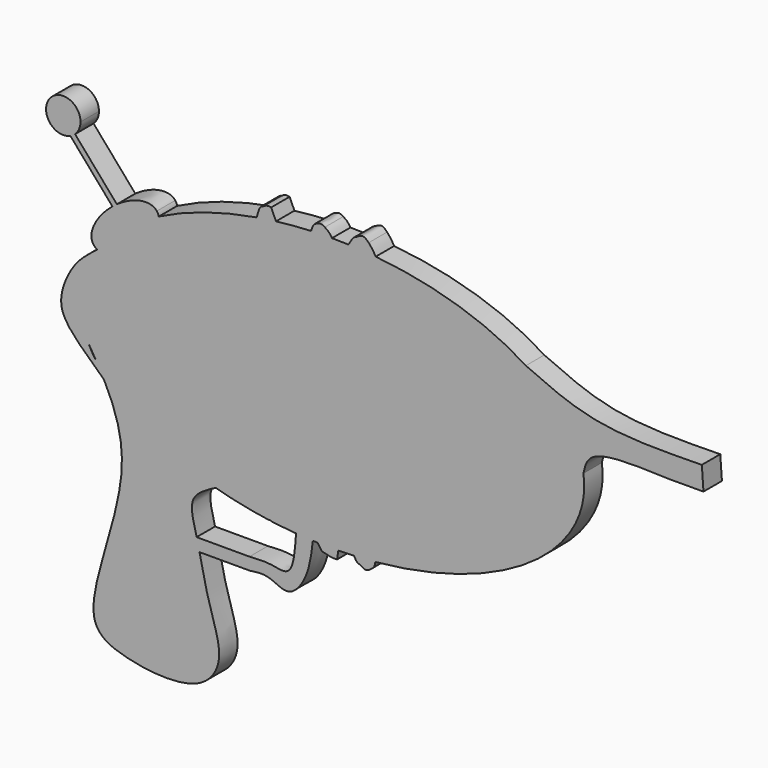
from build123d import *

# Parameters (mm, degrees)
F1_DEPTH = 3.81


with BuildPart() as f1:
    # F0 (on Front) → F1 (new body)
    with BuildSketch(Plane.XZ):
        with BuildLine():
            add(Edge.make_bspline(
                [(7.1764853625, -22.2150973609), (41.6714437306, -18.9513700341), (41.6714437306, 0)],
                knots=[4.8854677229, 4.8854677229, 4.8854677229, 6.2831853072, 6.2831853072, 6.2831853072], degree=2, weights=[1, 0.7655768754, 1]))
            add(Edge.make_bspline(
                [(41.6714437306, 0), (41.6714437306, 0.919232079), (41.5332061302, 1.8354147691)],
                knots=[0, 0, 0, 0.0814758591, 0.0814758591, 0.0814758591], degree=2, weights=[1, 0.9991703253, 1]))
            add(Edge.make_bspline(
                [(41.5332061302, 1.8354147691), (40.4608032167, 8.9428658771), (32.0327808531, 14.4245381336)],
                knots=[0.0814758591, 0.0814758591, 0.0814758591, 0.6939923291, 0.6939923291, 0.6939923291], degree=2, weights=[1, 0.9534683582, 1]))
            add(Edge.make_bspline(
                [(32.0327808531, 14.4245381336), (22.2639708412, 20.7782724393), (7.2220460873, 22.2107725458)],
                knots=[0.6939923291, 0.6939923291, 0.6939923291, 1.3966075613, 1.3966075613, 1.3966075613], degree=2, weights=[1, 0.9389235312, 1]))
            add(Edge.make_bspline(
                [(7.2220460873, 22.2107725458), (8.333769873, 20.140686904), (12.0700253902, 9.703719465), (10.7862677165, -6.9551726616), (8.3511709313, -17.3082662159), (7.1764853625, -22.2150973609)],
                knots=[0.1080643607, 0.1080643607, 0.1080643607, 0.1080643607, 0.3738691829, 0.6939713486, 0.984029053, 0.984029053, 0.984029053, 0.984029053], degree=3))
        make_face()
        with BuildLine():
            add(Edge.make_bspline(
                [(41.5332061302, 1.8354147691), (40.4608032167, 8.9428658771), (32.0327808531, 14.4245381336)],
                knots=[0.0814758591, 0.0814758591, 0.0814758591, 0.6939923291, 0.6939923291, 0.6939923291], degree=2, weights=[1, 0.9534683582, 1]))
            add(Edge.make_bspline(
                [(41.5332061302, 1.8354147691), (41.7938084635, 2.9887220769), (42.5212262317, 6.2730778516), (55.4833264671, 5.5069792129), (59.6356280034, 5.6022143315), (61.3840557635, 5.6421668269)],
                knots=[0, 0, 0, 0, 0.2387360903, 0.679721178, 1, 1, 1, 1], degree=3))
            Line((61.3840557635, 5.6421668269), (61.112139374, 9.4489296898))
            add(Edge.make_bspline(
                [(32.0327808531, 14.4245381336), (35.6491200449, 12.7849280683), (43.5685657691, 9.1410584661), (54.9279789937, 9.3461282725), (61.112139374, 9.4489296898)],
                knots=[0, 0, 0, 0, 0.4553090512, 1, 1, 1, 1], degree=3))
        make_face()
        with BuildLine():
            add(Edge.make_bspline(
                [(7.1764853625, -22.2150973609), (7.1118056776, -22.4852737387), (7.0470741814, -22.7554051835), (6.9823461496, -23.025536406)],
                knots=[0.984029053, 0.984029053, 0.984029053, 0.984029053, 1, 1, 1, 1], degree=3))
            add(Edge.make_bspline(
                [(5.1533014384, -22.3789331834), (6.1686099293, -22.3104571105), (7.1764853625, -22.2150973609)],
                knots=[4.8363714285, 4.8363714285, 4.8363714285, 4.8854677229, 4.8854677229, 4.8854677229], degree=2, weights=[1, 0.9996987094, 1]))
            add(Edge.make_bspline(
                [(5.1533014384, -22.3789331834), (4.9596112488, -22.9429018204), (4.7643858624, -23.3011066003), (4.5687956735, -23.3954750001)],
                knots=[0.8816460641, 0.8816460641, 0.8816460641, 0.8816460641, 0.9272607792, 0.9272607792, 0.9272607792, 0.9272607792], degree=3))
            add(Edge.make_bspline(
                [(4.5687956735, -23.3954750001), (4.9269265632, -23.6486043242), (5.6968907801, -24.192820217), (6.5343900978, -23.4323119812), (6.9823461496, -23.025536406)],
                knots=[0, 0, 0, 0, 0.4651266666, 1, 1, 1, 1], degree=3))
        make_face()
        with BuildLine():
            add(Edge.make_bspline(
                [(5.1533014384, -22.3789331834), (6.1686099293, -22.3104571105), (7.1764853625, -22.2150973609)],
                knots=[4.8363714285, 4.8363714285, 4.8363714285, 4.8854677229, 4.8854677229, 4.8854677229], degree=2, weights=[1, 0.9996987094, 1]))
            add(Edge.make_bspline(
                [(7.2220460873, 22.2107725458), (8.333769873, 20.140686904), (12.0700253902, 9.703719465), (10.7862677165, -6.9551726616), (8.3511709313, -17.3082662159), (7.1764853625, -22.2150973609)],
                knots=[0.1080643607, 0.1080643607, 0.1080643607, 0.1080643607, 0.3738691829, 0.6939713486, 0.984029053, 0.984029053, 0.984029053, 0.984029053], degree=3))
            add(Edge.make_bspline(
                [(7.2220460873, 22.2107725458), (6.1925912842, 22.3088114696), (5.1553487465, 22.3787950777)],
                knots=[1.3966075613, 1.3966075613, 1.3966075613, 1.4467643688, 1.4467643688, 1.4467643688], degree=2, weights=[1, 0.9996855533, 1]))
            add(Edge.make_bspline(
                [(5.1553487465, 22.3787950777), (6.2279392824, 19.7789939502), (9.7496877872, 8.9379244065), (8.0166114801, -3.6596154992), (6.0688547381, -19.7131123292), (5.1533014384, -22.3789331834)],
                knots=[0.1795431908, 0.1795431908, 0.1795431908, 0.1795431908, 0.405088035, 0.6660300689, 0.8816460641, 0.8816460641, 0.8816460641, 0.8816460641], degree=3))
        make_face()
        with BuildLine():
            add(Edge.make_bspline(
                [(5.1533014384, -22.3789331834), (4.9596112488, -22.9429018204), (4.7643858624, -23.3011066003), (4.5687956735, -23.3954750001)],
                knots=[0.8816460641, 0.8816460641, 0.8816460641, 0.8816460641, 0.9272607792, 0.9272607792, 0.9272607792, 0.9272607792], degree=3))
            add(Edge.make_bspline(
                [(3.6387588671, -22.4659001634), (4.3974987187, -22.4299072495), (5.1533014384, -22.3789331834)],
                knots=[4.7998205312, 4.7998205312, 4.7998205312, 4.8363714285, 4.8363714285, 4.8363714285], degree=2, weights=[1, 0.9998330086, 1]))
            add(Edge.make_bspline(
                [(4.5687956735, -23.3954750001), (4.2568989998, -23.5459589798), (3.9440746741, -23.025536406), (3.6387588671, -22.4659001634)],
                knots=[0.9272607792, 0.9272607792, 0.9272607792, 0.9272607792, 1, 1, 1, 1], degree=3))
        make_face()
        with BuildLine():
            add(Edge.make_bspline(
                [(3.6387588671, -22.4659001634), (4.3974987187, -22.4299072495), (5.1533014384, -22.3789331834)],
                knots=[4.7998205312, 4.7998205312, 4.7998205312, 4.8363714285, 4.8363714285, 4.8363714285], degree=2, weights=[1, 0.9998330086, 1]))
            add(Edge.make_bspline(
                [(5.1553487465, 22.3787950777), (6.2279392824, 19.7789939502), (9.7496877872, 8.9379244065), (8.0166114801, -3.6596154992), (6.0688547381, -19.7131123292), (5.1533014384, -22.3789331834)],
                knots=[0.1795431908, 0.1795431908, 0.1795431908, 0.1795431908, 0.405088035, 0.6660300689, 0.8816460641, 0.8816460641, 0.8816460641, 0.8816460641], degree=3))
            add(Edge.make_bspline(
                [(5.1553487465, 22.3787950777), (3.9407211328, 22.4607470029), (2.7192993131, 22.5039743043)],
                knots=[1.4467643688, 1.4467643688, 1.4467643688, 1.5054942227, 1.5054942227, 1.5054942227], degree=2, weights=[1, 0.9995688815, 1]))
            add(Edge.make_bspline(
                [(2.7192993131, 22.5039743043), (1.3611001979, 22.5520422867), (0, 22.5520422867)],
                knots=[1.5054942227, 1.5054942227, 1.5054942227, 1.5707963268, 1.5707963268, 1.5707963268], degree=2, weights=[1, 0.9994670018, 1]))
            add(Edge.make_bspline(
                [(0, 22.5520422867), (1.0003774585, 20.7307998262), (2.9397843044, 10.2045025058), (3.5643454916, -4.3126607806), (1.9147900768, -16.3914671082), (1.0420484569, -22.5449901207)],
                knots=[0.0993526733, 0.0993526733, 0.0993526733, 0.0993526733, 0.3584292002, 0.6634923799, 0.9769082879, 0.9769082879, 0.9769082879, 0.9769082879], degree=3))
            add(Edge.make_bspline(
                [(1.0420484569, -22.5449901207), (2.3426850401, -22.5273829939), (3.6387588671, -22.4659001634)],
                knots=[4.7373978833, 4.7373978833, 4.7373978833, 4.7998205312, 4.7998205312, 4.7998205312], degree=2, weights=[1, 0.9995129662, 1]))
        make_face()
        with BuildLine():
            add(Edge.make_bspline(
                [(7.2220460873, 22.2107725458), (6.1925912842, 22.3088114696), (5.1553487465, 22.3787950777)],
                knots=[1.3966075613, 1.3966075613, 1.3966075613, 1.4467643688, 1.4467643688, 1.4467643688], degree=2, weights=[1, 0.9996855533, 1]))
            add(Edge.make_bspline(
                [(6.0636275448, 23.8641984761), (6.4145004566, 23.4535255522), (6.7700688841, 23.0523768461), (7.2220460873, 22.2107725458)],
                knots=[0, 0, 0, 0, 0.1080643607, 0.1080643607, 0.1080643607, 0.1080643607], degree=3))
            add(Edge.make_bspline(
                [(3.9938613772, 24.0291655064), (4.3961510556, 24.2495084723), (5.1820388983, 24.7781285739), (5.7741613702, 24.1297041952), (6.0636275448, 23.8641984761)],
                knots=[0, 0, 0, 0, 0.5158196806, 1, 1, 1, 1], degree=3))
            add(Edge.make_bspline(
                [(3.9938613772, 24.0291655064), (4.3876915053, 24.0689069435), (4.7268113944, 23.4175063602), (5.1553487465, 22.3787950777)],
                knots=[0.0894301541, 0.0894301541, 0.0894301541, 0.0894301541, 0.1795431908, 0.1795431908, 0.1795431908, 0.1795431908], degree=3))
        make_face()
        with BuildLine():
            add(Edge.make_bspline(
                [(5.1553487465, 22.3787950777), (3.9407211328, 22.4607470029), (2.7192993131, 22.5039743043)],
                knots=[1.4467643688, 1.4467643688, 1.4467643688, 1.5054942227, 1.5054942227, 1.5054942227], degree=2, weights=[1, 0.9995688815, 1]))
            add(Edge.make_bspline(
                [(3.9938613772, 24.0291655064), (4.3876915053, 24.0689069435), (4.7268113944, 23.4175063602), (5.1553487465, 22.3787950777)],
                knots=[0.0894301541, 0.0894301541, 0.0894301541, 0.0894301541, 0.1795431908, 0.1795431908, 0.1795431908, 0.1795431908], degree=3))
            add(Edge.make_bspline(
                [(2.7192993131, 22.5039743043), (3.1582858778, 23.2695782882), (3.6030157201, 23.9897252325), (3.9938613772, 24.0291655064)],
                knots=[0, 0, 0, 0, 0.0894301541, 0.0894301541, 0.0894301541, 0.0894301541], degree=3))
        make_face()
        with BuildLine():
            add(Edge.make_bspline(
                [(1.0420484569, -22.5449901207), (0.977747004, -22.9983665393), (0.9132456507, -23.4519196846), (0.8487442974, -23.9054728299)],
                knots=[0.9769082879, 0.9769082879, 0.9769082879, 0.9769082879, 1, 1, 1, 1], degree=3))
            add(Edge.make_bspline(
                [(-1.1889858598, -22.5428606399), (-0.0735213869, -22.5600919408), (1.0420484569, -22.5449901207)],
                knots=[4.6838527182, 4.6838527182, 4.6838527182, 4.7373978833, 4.7373978833, 4.7373978833], degree=2, weights=[1, 0.9996416358, 1]))
            add(Edge.make_bspline(
                [(-1.1889858598, -22.5428606399), (-1.2739807385, -23.2370498653), (-1.345249393, -23.5886170221), (-1.5218219487, -23.5668197274)],
                knots=[0.8652892606, 0.8652892606, 0.8652892606, 0.8652892606, 0.9288319096, 0.9288319096, 0.9288319096, 0.9288319096], degree=3))
            add(Edge.make_bspline(
                [(-1.5218219487, -23.5668197274), (-0.9789189856, -23.712182557), (-0.035443621, -23.964799061), (0.5852259264, -23.9231540846), (0.8487442974, -23.9054728299)],
                knots=[0, 0, 0, 0, 0.5754288703, 1, 1, 1, 1], degree=3))
        make_face()
        with BuildLine():
            add(Edge.make_bspline(
                [(-1.1889858598, -22.5428606399), (-0.0735213869, -22.5600919408), (1.0420484569, -22.5449901207)],
                knots=[4.6838527182, 4.6838527182, 4.6838527182, 4.7373978833, 4.7373978833, 4.7373978833], degree=2, weights=[1, 0.9996416358, 1]))
            add(Edge.make_bspline(
                [(0, 22.5520422867), (1.0003774585, 20.7307998262), (2.9397843044, 10.2045025058), (3.5643454916, -4.3126607806), (1.9147900768, -16.3914671082), (1.0420484569, -22.5449901207)],
                knots=[0.0993526733, 0.0993526733, 0.0993526733, 0.0993526733, 0.3584292002, 0.6634923799, 0.9769082879, 0.9769082879, 0.9769082879, 0.9769082879], degree=3))
            add(Edge.make_bspline(
                [(0, 22.5520422867), (-0.7615843165, 22.5520422867), (-1.5226600499, 22.5369821217)],
                knots=[1.5707963268, 1.5707963268, 1.5707963268, 1.6073441146, 1.6073441146, 1.6073441146], degree=2, weights=[1, 0.999833037, 1]))
            add(Edge.make_bspline(
                [(-1.5226600499, 22.5369821217), (-0.5425767002, 20.2859520609), (0.2044492428, 9.5955376961), (0.2700825605, -3.2033162343), (-0.8416574228, -19.7060819743), (-1.1889858598, -22.5428606399)],
                knots=[0.1547151268, 0.1547151268, 0.1547151268, 0.1547151268, 0.3645832422, 0.6056245691, 0.8652892606, 0.8652892606, 0.8652892606, 0.8652892606], degree=3))
        make_face()
        with BuildLine():
            add(Edge.make_bspline(
                [(-1.1889858598, -22.5428606399), (-1.2739807385, -23.2370498653), (-1.345249393, -23.5886170221), (-1.5218219487, -23.5668197274)],
                knots=[0.8652892606, 0.8652892606, 0.8652892606, 0.8652892606, 0.9288319096, 0.9288319096, 0.9288319096, 0.9288319096], degree=3))
            add(Edge.make_bspline(
                [(-2.3697580282, -22.5155468689), (-1.7797298277, -22.5337350358), (-1.1889858598, -22.5428606399)],
                knots=[4.6554906118, 4.6554906118, 4.6554906118, 4.6838527182, 4.6838527182, 4.6838527182], degree=2, weights=[1, 0.9998994506, 1]))
            add(Edge.make_bspline(
                [(-1.5218219487, -23.5668197274), (-1.7195841099, -23.5424066464), (-2.0494406855, -23.0496409398), (-2.3697580282, -22.5155468689)],
                knots=[0.9288319096, 0.9288319096, 0.9288319096, 0.9288319096, 1, 1, 1, 1], degree=3))
        make_face()
        with BuildLine():
            add(Edge.make_bspline(
                [(-2.3697580282, -22.5155468689), (-1.7797298277, -22.5337350358), (-1.1889858598, -22.5428606399)],
                knots=[4.6554906118, 4.6554906118, 4.6554906118, 4.6838527182, 4.6838527182, 4.6838527182], degree=2, weights=[1, 0.9998994506, 1]))
            add(Edge.make_bspline(
                [(-1.5226600499, 22.5369821217), (-0.5425767002, 20.2859520609), (0.2044492428, 9.5955376961), (0.2700825605, -3.2033162343), (-0.8416574228, -19.7060819743), (-1.1889858598, -22.5428606399)],
                knots=[0.1547151268, 0.1547151268, 0.1547151268, 0.1547151268, 0.3645832422, 0.6056245691, 0.8652892606, 0.8652892606, 0.8652892606, 0.8652892606], degree=3))
            add(Edge.make_bspline(
                [(-1.5226600499, 22.5369821217), (-2.493255691, 22.5177759773), (-3.4611440046, 22.4741186741)],
                knots=[1.6073441146, 1.6073441146, 1.6073441146, 1.6539500556, 1.6539500556, 1.6539500556], degree=2, weights=[1, 0.9997284981, 1]))
            add(Edge.make_bspline(
                [(-3.4611440046, 22.4741186741), (-6.3872147082, 22.3421361362), (-9.2501766547, 21.9894025343)],
                knots=[1.6539500556, 1.6539500556, 1.6539500556, 1.7946397511, 1.7946397511, 1.7946397511], degree=2, weights=[1, 0.9975268213, 1]))
            add(Edge.make_bspline(
                [(-7.0969575947, -22.2225788984), (-6.6769060905, -21.5832460142), (-4.504539085, -17.0593177839), (-3.5007799838, -4.3054992001), (-4.0958148761, 9.922808618), (-7.5773585083, 18.2312672967), (-9.2501766547, 21.9894025343)],
                knots=[0.6009336755, 0.6009336755, 0.6009336755, 0.6009336755, 0.6289113931, 0.7545538523, 0.8793019586, 0.9835984232, 0.9835984232, 0.9835984232, 0.9835984232], degree=3))
            add(Edge.make_bspline(
                [(-7.0969575947, -22.2225788984), (-6.5194245706, -22.2765982337), (-5.9393127757, -22.3218060181)],
                knots=[4.5412473048, 4.5412473048, 4.5412473048, 4.5693747999, 4.5693747999, 4.5693747999], degree=2, weights=[1, 0.9999011071, 1]))
            add(Edge.make_bspline(
                [(-5.9393127757, -22.3218060181), (-4.5571076241, -22.4295204845), (-3.1646786606, -22.4869146118)],
                knots=[4.5693747999, 4.5693747999, 4.5693747999, 4.6363722095, 4.6363722095, 4.6363722095], degree=2, weights=[1, 0.9994389709, 1]))
            add(Edge.make_bspline(
                [(-3.1646786606, -22.4869146118), (-2.7674712236, -22.5032869904), (-2.3697580282, -22.5155468689)],
                knots=[4.6363722095, 4.6363722095, 4.6363722095, 4.6554906118, 4.6554906118, 4.6554906118], degree=2, weights=[1, 0.9999543112, 1]))
        make_face()
        with BuildLine():
            add(Edge.make_bspline(
                [(0, 22.5520422867), (-0.7615843165, 22.5520422867), (-1.5226600499, 22.5369821217)],
                knots=[1.5707963268, 1.5707963268, 1.5707963268, 1.6073441146, 1.6073441146, 1.6073441146], degree=2, weights=[1, 0.999833037, 1]))
            add(Edge.make_bspline(
                [(-1.1831691954, 23.7611513585), (-0.7834008461, 23.5058089056), (-0.3836324967, 23.2504664527), (0, 22.5520422867)],
                knots=[0, 0, 0, 0, 0.0993526733, 0.0993526733, 0.0993526733, 0.0993526733], degree=3))
            add(Edge.make_bspline(
                [(-2.70710513, 23.7611513585), (-2.404606313, 23.901342414), (-1.836394058, 24.1646765869), (-1.3913059941, 23.8897264542), (-1.1831691954, 23.7611513585)],
                knots=[0, 0, 0, 0, 0.5323693994, 1, 1, 1, 1], degree=3))
            add(Edge.make_bspline(
                [(-2.70710513, 23.7611513585), (-2.360860827, 23.8563365747), (-1.8959026295, 23.3942360142), (-1.5226600499, 22.5369821217)],
                knots=[0.0747916011, 0.0747916011, 0.0747916011, 0.0747916011, 0.1547151268, 0.1547151268, 0.1547151268, 0.1547151268], degree=3))
        make_face()
        with BuildLine():
            add(Edge.make_bspline(
                [(-1.5226600499, 22.5369821217), (-2.493255691, 22.5177759773), (-3.4611440046, 22.4741186741)],
                knots=[1.6073441146, 1.6073441146, 1.6073441146, 1.6539500556, 1.6539500556, 1.6539500556], degree=2, weights=[1, 0.9997284981, 1]))
            add(Edge.make_bspline(
                [(-2.70710513, 23.7611513585), (-2.360860827, 23.8563365747), (-1.8959026295, 23.3942360142), (-1.5226600499, 22.5369821217)],
                knots=[0.0747916011, 0.0747916011, 0.0747916011, 0.0747916011, 0.1547151268, 0.1547151268, 0.1547151268, 0.1547151268], degree=3))
            add(Edge.make_bspline(
                [(-3.4611440046, 22.4741186741), (-3.2511707321, 23.0949883667), (-3.0311169348, 23.6720780266), (-2.70710513, 23.7611513585)],
                knots=[0, 0, 0, 0, 0.0747916011, 0.0747916011, 0.0747916011, 0.0747916011], degree=3))
        make_face()
        with BuildLine():
            add(Edge.make_bspline(
                [(-13.6342413029, -30.2354152121), (-12.5432962426, -30.0774609666), (-10.3433804936, -29.7588064065), (-7.0966495742, -32.2360373182), (-3.8172880571, -28.0911274468), (-3.393210704, -24.483136136), (-3.1646786606, -22.4869146118)],
                knots=[0, 0, 0, 0, 0.2240627376, 0.4475061226, 0.6997376515, 1, 1, 1, 1], degree=3))
            add(Edge.make_bspline(
                [(-5.9393127757, -22.3218060181), (-4.5571076241, -22.4295204845), (-3.1646786606, -22.4869146118)],
                knots=[4.5693747999, 4.5693747999, 4.5693747999, 4.6363722095, 4.6363722095, 4.6363722095], degree=2, weights=[1, 0.9994389709, 1]))
            add(Edge.make_bspline(
                [(-13.6342413029, -28.2108336687), (-12.4151925102, -28.1249314633), (-10.1380850429, -27.9631814845), (-6.4093129269, -29.2140229702), (-6.1158025918, -24.889588487), (-5.9393127757, -22.3218060181)],
                knots=[0, 0, 0, 0, 0.3172759625, 0.5914407382, 1, 1, 1, 1], degree=3))
            Line((-13.6342413029, -28.2108336687), (-22.3647337407, -28.2108336687))
            add(Edge.make_bspline(
                [(-21.891946562, -30.2354152121), (-22.0467935738, -29.5399301818), (-22.2028386544, -28.8616250534), (-22.3647337407, -28.2108336687)],
                knots=[0.8135243145, 0.8135243145, 0.8135243145, 0.8135243145, 0.8389112883, 0.8389112883, 0.8389112883, 0.8389112883], degree=3))
            Line((-21.891946562, -30.2354152121), (-13.6342413029, -30.2354152121))
        make_face()
        with BuildLine():
            add(Edge.make_bspline(
                [(-7.0969575947, -22.2225788984), (-6.6769060905, -21.5832460142), (-4.504539085, -17.0593177839), (-3.5007799838, -4.3054992001), (-4.0958148761, 9.922808618), (-7.5773585083, 18.2312672967), (-9.2501766547, 21.9894025343)],
                knots=[0.6009336755, 0.6009336755, 0.6009336755, 0.6009336755, 0.6289113931, 0.7545538523, 0.8793019586, 0.9835984232, 0.9835984232, 0.9835984232, 0.9835984232], degree=3))
            add(Edge.make_bspline(
                [(-9.2501766547, 21.9894025343), (-9.9634110211, 21.9015279025), (-10.6705072506, 21.8001604442)],
                knots=[1.7946397511, 1.7946397511, 1.7946397511, 1.829743343, 1.829743343, 1.829743343], degree=2, weights=[1, 0.9998459712, 1]))
            add(Edge.make_bspline(
                [(-10.6705072506, 21.8001604442), (-9.845034484, 19.2418258219), (-7.5690409648, 6.8556643543), (-6.3391564123, -3.3894817027), (-7.8272532231, -19.2635268048), (-8.7159450049, -21.835876079), (-9.1270523238, -22.0044660526)],
                knots=[0.0782026135, 0.0782026135, 0.0782026135, 0.0782026135, 0.1655078864, 0.2887915671, 0.4135819728, 0.4625708659, 0.4625708659, 0.4625708659, 0.4625708659], degree=3))
            add(Edge.make_bspline(
                [(-9.1270523238, -22.0044660526), (-8.11701083, -22.1271686006), (-7.0969575947, -22.2225788984)],
                knots=[4.4915747615, 4.4915747615, 4.4915747615, 4.5412473048, 4.5412473048, 4.5412473048], degree=2, weights=[1, 0.9996915957, 1]))
        make_face()
        with BuildLine():
            add(Edge.make_bspline(
                [(-9.2501766547, 21.9894025343), (-9.9634110211, 21.9015279025), (-10.6705072506, 21.8001604442)],
                knots=[1.7946397511, 1.7946397511, 1.7946397511, 1.829743343, 1.829743343, 1.829743343], degree=2, weights=[1, 0.9998459712, 1]))
            add(Edge.make_bspline(
                [(-9.2501766547, 21.9894025343), (-9.5132426691, 22.5804038101), (-9.7784721469, 23.1707829074), (-10.0437076762, 23.7611513585)],
                knots=[0.9835984232, 0.9835984232, 0.9835984232, 0.9835984232, 1, 1, 1, 1], degree=3))
            add(Edge.make_bspline(
                [(-11.5056019276, 23.3956798911), (-11.256357419, 23.5577727551), (-10.7787209023, 23.8683973355), (-10.2814758977, 23.7958441835), (-10.0437076762, 23.7611513585)],
                knots=[0, 0, 0, 0, 0.5218288383, 1, 1, 1, 1], degree=3))
            add(Edge.make_bspline(
                [(-11.5056019276, 23.3956798911), (-11.2548829131, 23.3193211262), (-10.9704937777, 22.7298893822), (-10.6705072506, 21.8001604442)],
                knots=[0.0464748489, 0.0464748489, 0.0464748489, 0.0464748489, 0.0782026135, 0.0782026135, 0.0782026135, 0.0782026135], degree=3))
        make_face()
        with BuildLine():
            add(Edge.make_bspline(
                [(-37.6690162974, -10.2832480799), (-35.8366460863, -13.8002125518), (-32.2612957859, -23.901497049), (-42.467596895, -45.4799315022), (-34.7883987893, -49.9549691105), (-22.0075880248, -51.2215255019), (-17.5268412689, -44.76568784), (-20.2766913995, -38.0414394893), (-21.3701690243, -32.5789442374), (-21.891946562, -30.2354152121)],
                knots=[0.0468909459, 0.0468909459, 0.0468909459, 0.0468909459, 0.1506967801, 0.3239649351, 0.4153653591, 0.5405931451, 0.6294510097, 0.7279795402, 0.8135243145, 0.8135243145, 0.8135243145, 0.8135243145], degree=3))
            add(Edge.make_bspline(
                [(-21.891946562, -30.2354152121), (-22.0467935738, -29.5399301818), (-22.2028386544, -28.8616250534), (-22.3647337407, -28.2108336687)],
                knots=[0.8135243145, 0.8135243145, 0.8135243145, 0.8135243145, 0.8389112883, 0.8389112883, 0.8389112883, 0.8389112883], degree=3))
            add(Edge.make_bspline(
                [(-22.3647337407, -28.2108336687), (-22.8946924583, -26.080487557), (-24.043482021, -22.5224965707), (-20.7907085044, -20.8398757042), (-19.2157544166, -20.0112178716)],
                knots=[0.8389112883, 0.8389112883, 0.8389112883, 0.8389112883, 0.9220147869, 1, 1, 1, 1], degree=3))
            add(Edge.make_bspline(
                [(-37.1923108859, -10.1714536978), (-31.1342748585, -16.6592416805), (-19.2157544166, -20.0112178716)],
                knots=[3.6095020717, 3.6095020717, 3.6095020717, 4.2331260894, 4.2331260894, 4.2331260894], degree=2, weights=[1, 0.9517792378, 1]))
            add(Edge.make_bspline(
                [(-37.1923108859, -10.1714536978), (-37.2510855356, -10.2999251122), (-37.3100490147, -10.4282729202), (-37.3690124938, -10.5566207282)],
                knots=[0.9774733149, 0.9774733149, 0.9774733149, 0.9774733149, 1, 1, 1, 1], degree=3))
            add(Edge.make_bspline(
                [(-37.3690124938, -10.5566207282), (-37.4690263705, -10.4654996565), (-37.5690402471, -10.3743785848), (-37.6690162974, -10.2832480799)],
                knots=[0, 0, 0, 0, 0.0156168673, 0.0156168673, 0.0156168673, 0.0156168673], degree=3))
        make_face()
        with BuildLine():
            add(Edge.make_bspline(
                [(-10.6705072506, 21.8001604442), (-9.845034484, 19.2418258219), (-7.5690409648, 6.8556643543), (-6.3391564123, -3.3894817027), (-7.8272532231, -19.2635268048), (-8.7159450049, -21.835876079), (-9.1270523238, -22.0044660526)],
                knots=[0.0782026135, 0.0782026135, 0.0782026135, 0.0782026135, 0.1655078864, 0.2887915671, 0.4135819728, 0.4625708659, 0.4625708659, 0.4625708659, 0.4625708659], degree=3))
            add(Edge.make_bspline(
                [(-10.6705072506, 21.8001604442), (-11.5703631748, 21.6711594624), (-12.458677086, 21.5205404208)],
                knots=[1.829743343, 1.829743343, 1.829743343, 1.8744135937, 1.8744135937, 1.8744135937], degree=2, weights=[1, 0.9997505815, 1]))
            add(Edge.make_bspline(
                [(-12.458677086, 21.5205404208), (-21.631848064, 19.9651733322), (-28.619099277, 16.3923056182)],
                knots=[1.8744135937, 1.8744135937, 1.8744135937, 2.327845583, 2.327845583, 2.327845583], degree=2, weights=[1, 0.9744098227, 1]))
            add(Edge.make_bspline(
                [(-38.7605887773, 8.2807969275), (-36.2499309786, 7.0974163632), (-32.1288001731, 10.3936371346), (-28.0076693677, 13.689857906), (-28.619099277, 16.3923056182)],
                knots=[3.3755071652, 3.3755071652, 3.3755071652, 4.7137884855, 4.7137884855, 6.0520698058, 6.0520698058, 6.0520698058], degree=2, weights=[1, 0.7843550144, 1, 0.7843550144, 1]))
            add(Edge.make_bspline(
                [(-38.7605887773, 8.2807969275), (-37.8277830011, 6.7265415111), (-35.800554243, 3.3487415896), (-34.7371395596, -4.591400513), (-36.4023210089, -8.4446698285), (-37.1923108859, -10.1714536978)],
                knots=[0, 0, 0, 0, 0.3104517882, 0.6746922126, 0.9774733149, 0.9774733149, 0.9774733149, 0.9774733149], degree=3))
            add(Edge.make_bspline(
                [(-37.1923108859, -10.1714536978), (-31.1342748585, -16.6592416805), (-19.2157544166, -20.0112178716)],
                knots=[3.6095020717, 3.6095020717, 3.6095020717, 4.2331260894, 4.2331260894, 4.2331260894], degree=2, weights=[1, 0.9517792378, 1]))
            add(Edge.make_bspline(
                [(-19.2157544166, -20.0112178716), (-18.344589915, -20.2562250168), (-17.4530716385, -20.4787573808)],
                knots=[4.2331260894, 4.2331260894, 4.2331260894, 4.2802372323, 4.2802372323, 4.2802372323], degree=2, weights=[1, 0.9997225804, 1]))
            add(Edge.make_bspline(
                [(-17.4530716385, -20.4787573808), (-16.6966341359, -20.667572159), (-15.9268577652, -20.8398757042)],
                knots=[4.2802372323, 4.2802372323, 4.2802372323, 4.3202122752, 4.3202122752, 4.3202122752], degree=2, weights=[1, 0.9998002561, 1]))
            add(Edge.make_bspline(
                [(-15.9268577652, -20.8398757042), (-13.2048759143, -21.4491528146), (-10.3515910818, -21.8451497899)],
                knots=[4.3202122752, 4.3202122752, 4.3202122752, 4.4613508265, 4.4613508265, 4.4613508265], degree=2, weights=[1, 0.9975110219, 1]))
            add(Edge.make_bspline(
                [(-9.945084631, -21.9003897349), (-10.1376270277, -21.8242231157), (-10.3163035419, -21.7422076261), (-10.3515910818, -21.8451497899)],
                knots=[0.4916700326, 0.4916700326, 0.4916700326, 0.4916700326, 0.5121945181, 0.5121945181, 0.5121945181, 0.5121945181], degree=3))
            add(Edge.make_bspline(
                [(-9.945084631, -21.9003897349), (-9.5370380489, -21.9546598877), (-9.1270523238, -22.0044660526)],
                knots=[4.4714087269, 4.4714087269, 4.4714087269, 4.4915747615, 4.4915747615, 4.4915747615], degree=2, weights=[1, 0.9999491668, 1]))
        make_face()
        with BuildLine():
            add(Edge.make_bspline(
                [(-10.6705072506, 21.8001604442), (-11.5703631748, 21.6711594624), (-12.458677086, 21.5205404208)],
                knots=[1.829743343, 1.829743343, 1.829743343, 1.8744135937, 1.8744135937, 1.8744135937], degree=2, weights=[1, 0.9997505815, 1]))
            add(Edge.make_bspline(
                [(-11.5056019276, 23.3956798911), (-11.2548829131, 23.3193211262), (-10.9704937777, 22.7298893822), (-10.6705072506, 21.8001604442)],
                knots=[0.0464748489, 0.0464748489, 0.0464748489, 0.0464748489, 0.0782026135, 0.0782026135, 0.0782026135, 0.0782026135], degree=3))
            add(Edge.make_bspline(
                [(-12.458677086, 21.5205404208), (-12.167864673, 22.5185102901), (-11.8728552933, 23.5075302566), (-11.5056019276, 23.3956798911)],
                knots=[0, 0, 0, 0, 0.0464748489, 0.0464748489, 0.0464748489, 0.0464748489], degree=3))
        make_face()
        with BuildLine():
            add(Edge.make_bspline(
                [(-37.6690162974, -10.2832480799), (-38.9718134368, -9.095718058), (-41.5167060758, -6.7613505926), (-44.6201142816, -3.342447198), (-44.996733549, 0.0859447598), (-42.74722539, 5.2536690206), (-40.0752687918, 7.2825357497), (-38.7605887773, 8.2807969275)],
                knots=[0.0156168673, 0.0156168673, 0.0156168673, 0.0156168673, 0.2191217061, 0.4151142527, 0.5797857803, 0.7932424363, 1, 1, 1, 1], degree=3))
            add(Edge.make_bspline(
                [(-38.8189308622, -8.2003636249), (-38.4217038551, -8.8871169974), (-38.0355021528, -9.5798325117), (-37.6690162974, -10.2832480799)],
                knots=[0.0261291098, 0.0261291098, 0.0261291098, 0.0261291098, 0.0468909459, 0.0468909459, 0.0468909459, 0.0468909459], degree=3))
            add(Edge.make_bspline(
                [(-40.353745609, -5.6263781042), (-39.7291987523, -6.9383200712), (-38.8189308622, -8.2003636249)],
                knots=[3.3937402237, 3.3937402237, 3.3937402237, 3.5137431458, 3.5137431458, 3.5137431458], degree=2, weights=[1, 0.9982004523, 1]))
            add(Edge.make_bspline(
                [(-38.7605887773, 8.2807969275), (-43.730644023, 1.4672365704), (-40.353745609, -5.6263781042)],
                knots=[2.7656106427, 2.7656106427, 2.7656106427, 3.3937402237, 3.3937402237, 3.3937402237], degree=2, weights=[1, 0.9510857064, 1]))
        make_face()
        with BuildLine():
            add(Edge.make_bspline(
                [(-38.8189308622, -8.2003636249), (-38.4217038551, -8.8871169974), (-38.0355021528, -9.5798325117), (-37.6690162974, -10.2832480799)],
                knots=[0.0261291098, 0.0261291098, 0.0261291098, 0.0261291098, 0.0468909459, 0.0468909459, 0.0468909459, 0.0468909459], degree=3))
            add(Edge.make_bspline(
                [(-37.3690124938, -10.5566207282), (-37.4690263705, -10.4654996565), (-37.5690402471, -10.3743785848), (-37.6690162974, -10.2832480799)],
                knots=[0, 0, 0, 0, 0.0156168673, 0.0156168673, 0.0156168673, 0.0156168673], degree=3))
            add(Edge.make_bspline(
                [(-37.1923108859, -10.1714536978), (-37.2510855356, -10.2999251122), (-37.3100490147, -10.4282729202), (-37.3690124938, -10.5566207282)],
                knots=[0.9774733149, 0.9774733149, 0.9774733149, 0.9774733149, 1, 1, 1, 1], degree=3))
            add(Edge.make_bspline(
                [(-38.8189308622, -8.2003636249), (-38.0928799196, -9.2069990581), (-37.1923108859, -10.1714536978)],
                knots=[3.5137431458, 3.5137431458, 3.5137431458, 3.6095020717, 3.6095020717, 3.6095020717], degree=2, weights=[1, 0.9988539975, 1]))
        make_face()
        with BuildLine():
            add(Edge.make_bspline(
                [(-40.353745609, -5.6263781042), (-39.8362267921, -6.4812261698), (-39.3188475389, -7.3360732884), (-38.8189308622, -8.2003636249)],
                knots=[0, 0, 0, 0, 0.0261291098, 0.0261291098, 0.0261291098, 0.0261291098], degree=3))
            add(Edge.make_bspline(
                [(-38.8189308622, -8.2003636249), (-38.0928799196, -9.2069990581), (-37.1923108859, -10.1714536978)],
                knots=[3.5137431458, 3.5137431458, 3.5137431458, 3.6095020717, 3.6095020717, 3.6095020717], degree=2, weights=[1, 0.9988539975, 1]))
            add(Edge.make_bspline(
                [(-38.7605887773, 8.2807969275), (-37.8277830011, 6.7265415111), (-35.800554243, 3.3487415896), (-34.7371395596, -4.591400513), (-36.4023210089, -8.4446698285), (-37.1923108859, -10.1714536978)],
                knots=[0, 0, 0, 0, 0.3104517882, 0.6746922126, 0.9774733149, 0.9774733149, 0.9774733149, 0.9774733149], degree=3))
            add(Edge.make_bspline(
                [(-38.7605887773, 8.2807969275), (-43.730644023, 1.4672365704), (-40.353745609, -5.6263781042)],
                knots=[2.7656106427, 2.7656106427, 2.7656106427, 3.3937402237, 3.3937402237, 3.3937402237], degree=2, weights=[1, 0.9510857064, 1]))
        make_face()
        with BuildLine():
            add(Edge.make_bspline(
                [(-36.2805634063, 15.3663924191), (-42.700217673, 10.1377127797), (-38.7605887773, 8.2807969275)],
                knots=[1.5904660246, 1.5904660246, 1.5904660246, 3.3755071652, 3.3755071652, 3.3755071652], degree=2, weights=[1, 0.6274513653, 1]))
            add(Edge.make_bspline(
                [(-34.1572509738, 12.9182976233), (-36.9624315283, 10.7459310845), (-38.7605887773, 8.2807969275)],
                knots=[2.5316485668, 2.5316485668, 2.5316485668, 2.7656106427, 2.7656106427, 2.7656106427], degree=2, weights=[1, 0.9931655176, 1]))
            Line((-34.1572509738, 12.9182976233), (-36.2805634063, 15.3663924191))
        make_face()
        with BuildLine():
            add(Edge.make_bspline(
                [(-34.1572509738, 12.9182976233), (-36.9624315283, 10.7459310845), (-38.7605887773, 8.2807969275)],
                knots=[2.5316485668, 2.5316485668, 2.5316485668, 2.7656106427, 2.7656106427, 2.7656106427], degree=2, weights=[1, 0.9931655176, 1]))
            add(Edge.make_bspline(
                [(-38.7605887773, 8.2807969275), (-36.2499309786, 7.0974163632), (-32.1288001731, 10.3936371346), (-28.0076693677, 13.689857906), (-28.619099277, 16.3923056182)],
                knots=[3.3755071652, 3.3755071652, 3.3755071652, 4.7137884855, 4.7137884855, 6.0520698058, 6.0520698058, 6.0520698058], degree=2, weights=[1, 0.7843550144, 1, 0.7843550144, 1]))
            add(Edge.make_bspline(
                [(-28.619099277, 16.3923056182), (-31.253816724, 15.0450666805), (-33.4191352358, 13.4718669156)],
                knots=[2.327845583, 2.327845583, 2.327845583, 2.5013775835, 2.5013775835, 2.5013775835], degree=2, weights=[1, 0.9962381915, 1]))
            add(Edge.make_bspline(
                [(-33.4191352358, 13.4718669156), (-33.7959345913, 13.1981055016), (-34.1572509738, 12.9182976233)],
                knots=[2.5013775835, 2.5013775835, 2.5013775835, 2.5316485668, 2.5316485668, 2.5316485668], degree=2, weights=[1, 0.9998854606, 1]))
        make_face()
        with BuildLine():
            add(Edge.make_bspline(
                [(-28.619099277, 16.3923056182), (-31.253816724, 15.0450666805), (-33.4191352358, 13.4718669156)],
                knots=[2.327845583, 2.327845583, 2.327845583, 2.5013775835, 2.5013775835, 2.5013775835], degree=2, weights=[1, 0.9962381915, 1]))
            add(Edge.make_bspline(
                [(-28.619099277, 16.3923056182), (-28.7088395319, 16.7889469055), (-28.9434449831, 17.082673357)],
                knots=[6.0520698058, 6.0520698058, 6.0520698058, 6.2831853072, 6.2831853072, 6.2831853072], degree=2, weights=[1, 0.9933306298, 1]))
            add(Edge.make_bspline(
                [(-28.9434449831, 17.082673357), (-30.7377364292, 19.32912951), (-35.5463297915, 15.9244376452)],
                knots=[0, 0, 0, 1.4520171795, 1.4520171795, 1.4520171795], degree=2, weights=[1, 0.7478302098, 1]))
            Line((-35.5463297915, 15.9244376452), (-33.4191352358, 13.4718669156))
        make_face()
        with BuildLine():
            Line((-36.2805634063, 15.3663924191), (-34.1572509738, 12.9182976233))
            add(Edge.make_bspline(
                [(-33.4191352358, 13.4718669156), (-33.7959345913, 13.1981055016), (-34.1572509738, 12.9182976233)],
                knots=[2.5013775835, 2.5013775835, 2.5013775835, 2.5316485668, 2.5316485668, 2.5316485668], degree=2, weights=[1, 0.9998854606, 1]))
            Line((-33.4191352358, 13.4718669156), (-35.5463297915, 15.9244376452))
            add(Edge.make_bspline(
                [(-35.5463297915, 15.9244376452), (-35.9218892834, 15.6585252982), (-36.2805634063, 15.3663924191)],
                knots=[1.4520171795, 1.4520171795, 1.4520171795, 1.5904660246, 1.5904660246, 1.5904660246], degree=2, weights=[1, 0.9976049463, 1]))
        make_face()
        with BuildLine():
            Line((-43.2188954323, 23.3660133251), (-36.2805634063, 15.3663924191))
            add(Edge.make_bspline(
                [(-35.5463297915, 15.9244376452), (-35.9218892834, 15.6585252982), (-36.2805634063, 15.3663924191)],
                knots=[1.4520171795, 1.4520171795, 1.4520171795, 1.5904660246, 1.5904660246, 1.5904660246], degree=2, weights=[1, 0.9976049463, 1]))
            Line((-35.5463297915, 15.9244376452), (-42.4490310252, 23.8829776645))
            ThreePointArc((-42.4490310252, 23.8829776645), (-42.8127509247, 23.592906086), (-43.2188954323, 23.3660133251))
        make_face()
        with BuildLine():
            ThreePointArc((-41.5542018528, 25.9539932013), (-46.7901335163, 27.4925675863), (-43.2188954323, 23.3660133251))
            ThreePointArc((-43.2188954323, 23.3660133251), (-42.8127509247, 23.592906086), (-42.4490310252, 23.8829776645))
            ThreePointArc((-42.4490310252, 23.8829776645), (-41.7874760333, 24.8259612202), (-41.5542018528, 25.9539932013))
        make_face()
    extrude(amount=F1_DEPTH)


solid = f1.part
